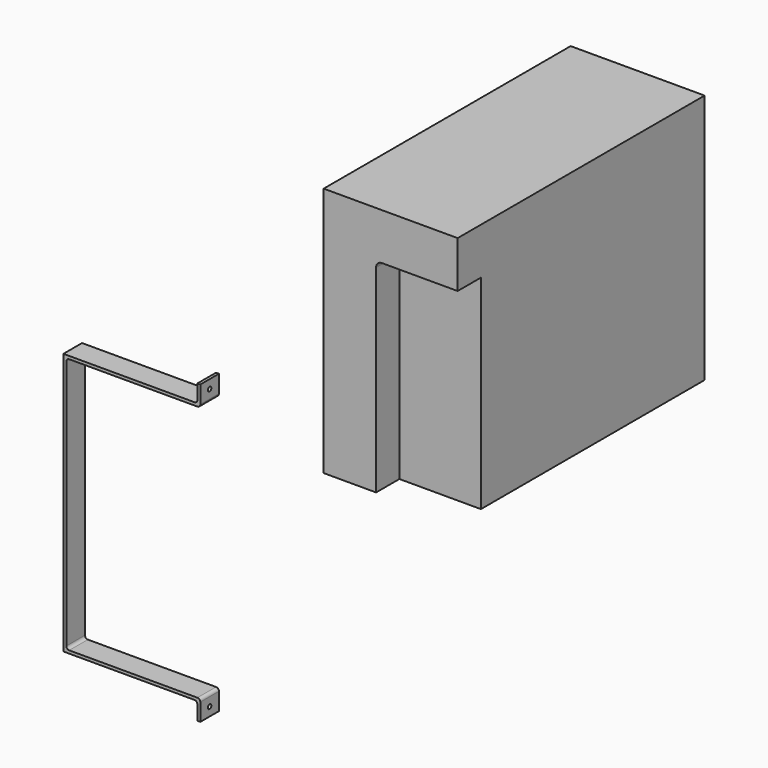
from build123d import *

# Parameters (mm, degrees)
F0_W      = 230
F0_H      = 430
F2_DEPTH  = 530
F1_W      = 140
F1_H      = 350
F3_DEPTH  = 50
F4_R      = 10
F5_W      = 40
F5_H      = 450
F6_DEPTH  = 5
F8_W      = 40
F8_H      = 5
F9_DEPTH  = 230
F10_W     = 5
F10_H     = 40
F12_DEPTH = 30
F11_W     = 5
F11_H     = 40
F13_DEPTH = 30
F14_R     = 5
F15_R     = 3.75
F17_DEPTH = 25
F16_R     = 3.75
F18_DEPTH = 25


with BuildPart() as f2:
    # F0 (on Front) → F2 (new body)
    with BuildSketch(Plane.XZ):
        Rectangle(F0_W, F0_H)
    extrude(amount=-F2_DEPTH)

    # F1 (on face) → F3 (cut)
    with BuildSketch(Plane.XZ):
        with Locations((45, -40)):
            Rectangle(F1_W, F1_H)
        with Locations((45, -40)):
            Rectangle(F1_W, F1_H)
    extrude(amount=-F3_DEPTH, mode=Mode.SUBTRACT)

    # F4
    f4_edges = [f2.edges().sort_by_distance(p)[0] for p in [
        (-25, 25, 135),
    ]]
    fillet(f4_edges, radius=F4_R)


with BuildPart() as f6:
    # F5 (on Right) → F6 (new body)
    with BuildSketch(Plane.YZ):
        with Locations((-72.081908, 3.739637)):
            Rectangle(F5_W, F5_H)
    extrude(amount=F6_DEPTH)


with BuildPart() as f6_1:
    # F7: moved
    add(f6.part.moved(Location((-129, -449, -48))))

    # F8 (on face) → F9 (join)
    with BuildSketch(Plane.YZ.offset(-124)):
        with Locations((-521.081908, -266.760363)):
            Rectangle(F8_W, F8_H)
        with Locations((-521.081908, 178.239637)):
            Rectangle(F8_W, F8_H)
    extrude(amount=F9_DEPTH)

    # F10 (on face) → F12 (join)
    with BuildSketch(Plane(origin=(0, 0, -269.260363), x_dir=(1, 0, 0), z_dir=(0, 0, -1))):
        with Locations((103.5, 521.081908)):
            Rectangle(F10_W, F10_H)
    extrude(amount=F12_DEPTH)

    # F11 (on face) → F13 (join)
    with BuildSketch(Plane.XY.offset(180.739637)):
        with Locations((103.5, -521.081908)):
            Rectangle(F11_W, F11_H)
    extrude(amount=F13_DEPTH)

    # F14
    f14_edges = [f6_1.edges().sort_by_distance(p)[0] for p in [
        (-124, -521.081908, -264.260363),
        (101, -521.081908, -269.260363),
        (-124, -521.081908, 175.739637),
        (101, -521.081908, 180.739637),
        (106, -521.081908, -264.260363),
        (106, -521.081908, 175.739637),
    ]]
    fillet(f14_edges, radius=F14_R)

    # F15 (on face) → F17 (cut)
    with BuildSketch(Plane(origin=(101, 0, 0), x_dir=(0, -1, 0), z_dir=(-1, 0, 0))):
        with Locations((521.081908, -284.260363)):
            Circle(F15_R)
    extrude(amount=-F17_DEPTH, mode=Mode.SUBTRACT)

    # F16 (on face) → F18 (cut)
    with BuildSketch(Plane(origin=(101, 0, 0), x_dir=(0, -1, 0), z_dir=(-1, 0, 0))):
        with Locations((521.081908, 195.739637)):
            Circle(F16_R)
    extrude(amount=-F18_DEPTH, mode=Mode.SUBTRACT)


solid = Compound([f2.part, f6_1.part])
